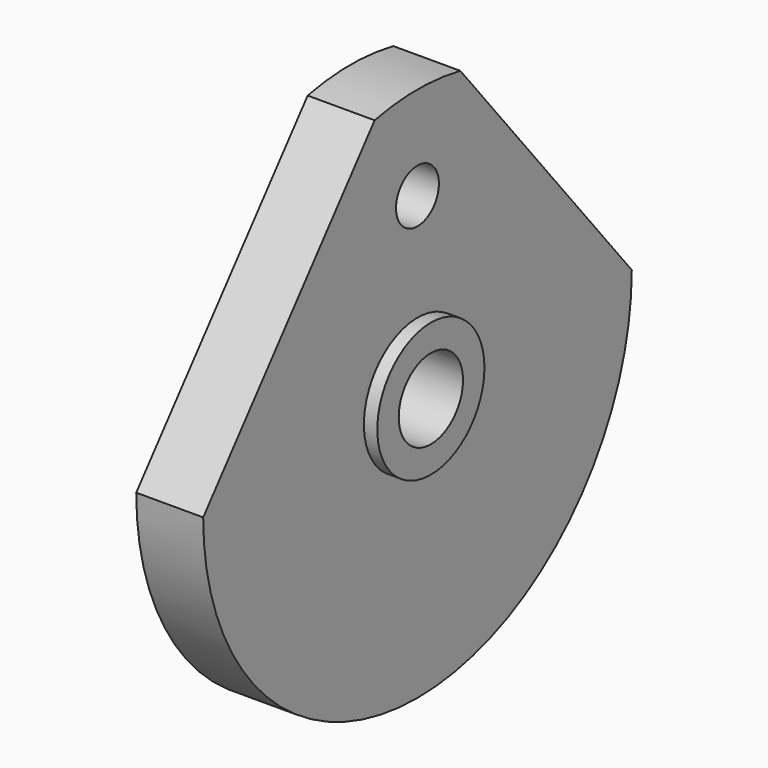
from build123d import *

# Parameters (mm, degrees)
F0_R     = 50
F1_DEPTH = 50
F2_DEPTH = 10
F4_D     = 60
F5_D     = 40


with BuildPart() as f1:
    # F0 (on Right) → F1 (new body)
    with BuildSketch(Plane.YZ):
        with BuildLine():
            Line((-40, 195.959179), (-200, 0))
            ThreePointArc((-200, 0), (0, -200), (200, 0))
            Line((200, 0), (40, 195.959179))
            ThreePointArc((40, 195.959179), (0, 200), (-40, 195.959179))
        make_face()
        Circle(F0_R, mode=Mode.SUBTRACT)
        Circle(F0_R)
    extrude(amount=-F1_DEPTH)

    # F0 (on Right) → F2 (join)
    with BuildSketch(Plane.YZ):
        Circle(F0_R)
    extrude(amount=F2_DEPTH)

    # F4 (through all)
    with Locations(Plane.YZ.offset(10)):
        with Locations((0, 0)):
            Hole(F4_D / 2)

    # F5 (through all)
    with Locations(Plane.YZ):
        with Locations((0, 130)):
            Hole(F5_D / 2)


solid = f1.part
